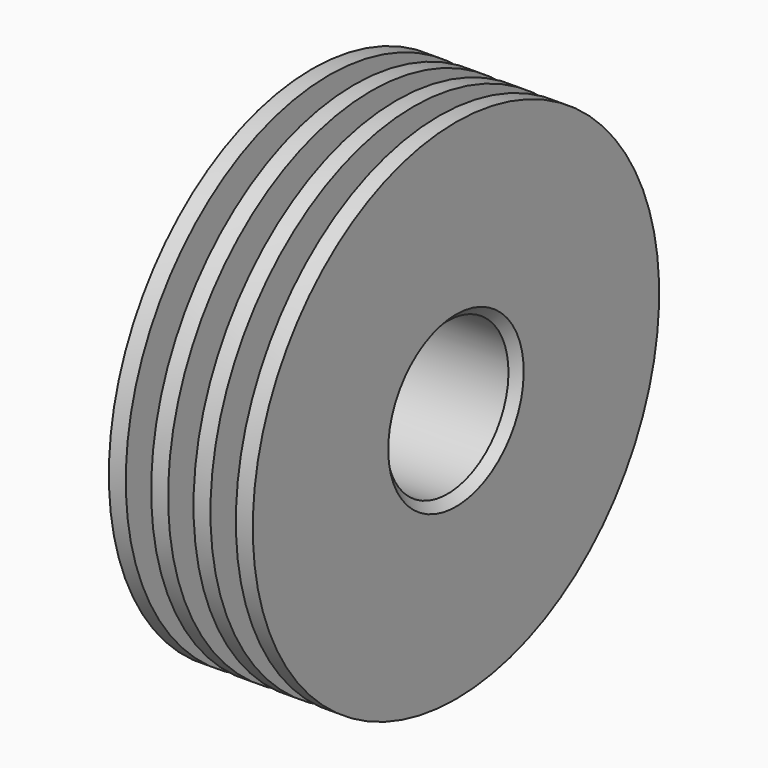
from build123d import *

# Parameters (mm, degrees)
F2_SIZE = 1


with BuildPart() as f1:
    # F0 (on Front) → F1 (revolve)
    with BuildSketch(Plane.XZ):
        Polygon((0, 30), (0, 9), (17, 9), (17, 30), (15, 30), (15, 15), (12, 15), (12, 30), (10, 30), (10, 15), (7, 15), (7, 30), (5, 30), (5, 15), (2, 15), (2, 30), align=None)
    revolve(axis=Axis((32.809981, 0, 0), (1, 0, 0)))

    # F2
    f2_edges = [f1.edges().sort_by_distance(p)[0] for p in [
        (0, 0, -9),
        (17, 0, -9),
    ]]
    chamfer(f2_edges, length=F2_SIZE)


solid = f1.part
